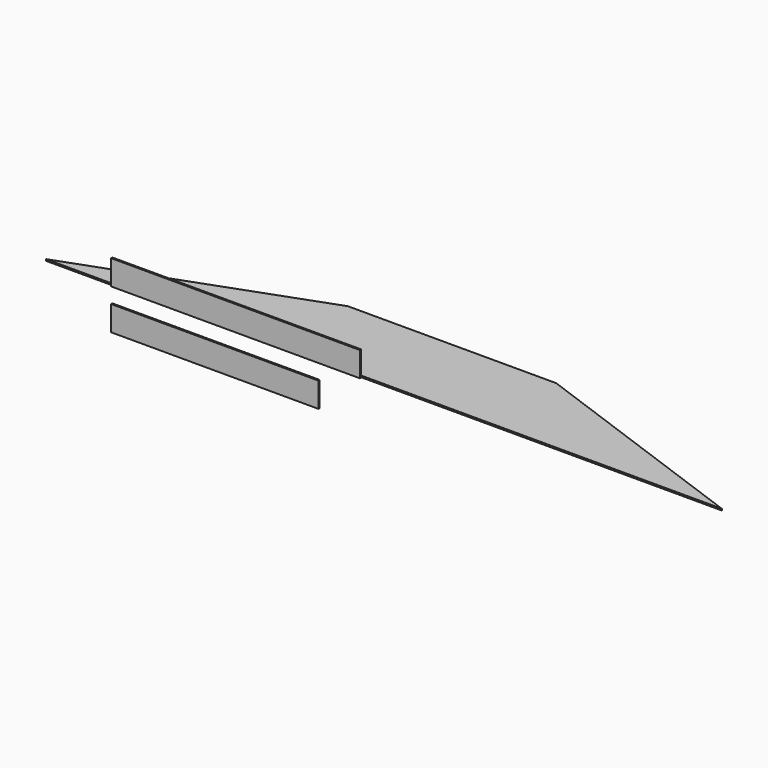
from build123d import *

# Parameters (mm, degrees)
F0_W     = 635
F0_H     = 76.2
F1_DEPTH = 4.7625
F2_W     = 762
F2_H     = 76.2
F3_DEPTH = 4.7625
F5_DEPTH = 4.7625


with BuildPart() as f1:
    # F0 (on Front) → F1 (new body)
    with BuildSketch(Plane.XZ):
        with Locations((317.5, -38.1)):
            Rectangle(F0_W, F0_H)
    extrude(amount=F1_DEPTH)


with BuildPart() as f3:
    # F2 (on Front) → F3 (new body)
    with BuildSketch(Plane.XZ):
        with Locations((381, 85.598487)):
            Rectangle(F2_W, F2_H)
    extrude(amount=F3_DEPTH)


with BuildPart() as f5:
    # F4 (on Top) → F5 (new body)
    with BuildSketch(Plane.XY):
        Polygon((455.149392, 333.186574), (-260.896385, 72.567225), (1809.432215, 72.567225), (1093.386438, 333.186574), align=None)
    extrude(amount=F5_DEPTH)


solid = Compound([f1.part, f3.part, f5.part])
